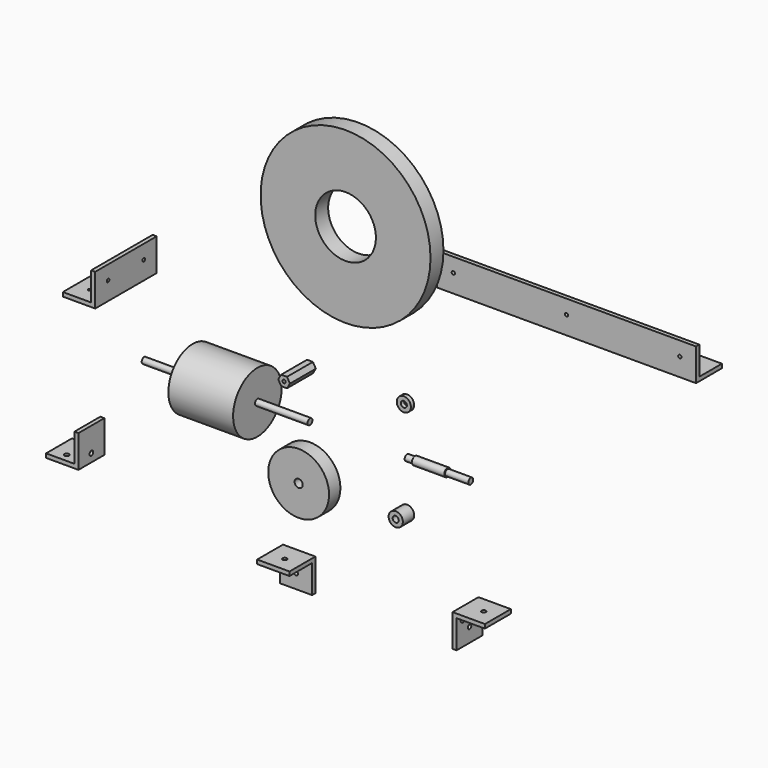
from build123d import *

# Parameters (mm, degrees)
F1_DEPTH         = 50.8
F2_D             = 5.1054
F3_R             = 11.1125
F3_R_2           = 4.7625
F4_DEPTH         = 6.35
F7_R             = 47.752
F7_R_2           = 6.35
F8_DEPTH         = 22.225
F9_R             = 11.1379
F9_R_2           = 4.7625
F10_DEPTH        = 22.225
F13_R            = 133.35
F13_R_2          = 47.625
F14_DEPTH        = 25.4
F16_DEPTH        = 120.65
F19_D            = 5.1054
F19_ON_F17_D     = 5.1054
F21_DEPTH        = 406.4
F24_D            = 5.1054
F24_DEPTH        = 10.2616
F24_TIP          = 1.5338169022
F24_ON_F22_D     = 5.1054
F24_ON_F22_DEPTH = 10.2616
F24_ON_F22_TIP   = 1.5338169022
F26_DEPTH        = 50.8
F29_D            = 6.7564
F29_ON_F27_D     = 6.7564
F30_D            = 9.525
F32_DEPTH        = 50.8
F35_D            = 6.7564
F35_ON_F34_D     = 6.7564
F37_DEPTH        = 50.8
F40_D            = 7.1374
F40_DEPTH        = 26.0604
F40_TIP          = 2.1442912911
F40_ON_F38_D     = 7.1374
F40_ON_F38_DEPTH = 26.0604
F40_ON_F38_TIP   = 2.1442912911


with BuildPart() as f1:
    # F0 (on Front) → F1 (new body)
    with BuildSketch(Plane.XZ):
        Polygon((-71.6172822383, 68.2625), (-67.0345644766, 76.2), (-71.6172822383, 84.1375), (-80.7827177617, 84.1375), (-85.3654355234, 76.2), (-80.7827177617, 68.2625), align=None)
    extrude(amount=F1_DEPTH)

    # F2 (through all)
    with Locations(Plane(origin=(0, 0, 0), x_dir=(1, 0, 0), z_dir=(0, 1, 0))):
        with Locations((-76.2, -76.2)):
            Hole(F2_D / 2)


with BuildPart() as f4:
    # F3 (on Front) → F4 (new body)
    with BuildSketch(Plane.XZ):
        with Locations((76.2, 76.2)):
            Circle(F3_R)
        with Locations((76.2, 76.2)):
            Circle(F3_R_2, mode=Mode.SUBTRACT)
    extrude(amount=F4_DEPTH)


with BuildPart() as f6:
    # F5 (on Front) → F6 (revolve)
    with BuildSketch(Plane.XZ):
        Polygon((76.2, 4.7625), (76.2, 0), (176.2125, 0), (176.2125, 4.7625), (139.7, 4.7625), (139.7, 6.35), (88.9, 6.35), (88.9, 4.7625), align=None)
    revolve(axis=Axis((126.20625, 0, 0), (-1, 0, 0)))


with BuildPart() as f8:
    # F7 (on Front) → F8 (new body)
    with BuildSketch(Plane.XZ):
        with Locations((-76.2, -76.2)):
            Circle(F7_R)
        with Locations((-76.2, -76.2)):
            Circle(F7_R_2, mode=Mode.SUBTRACT)
    extrude(amount=F8_DEPTH)


with BuildPart() as f10:
    # F9 (on Front) → F10 (new body)
    with BuildSketch(Plane.XZ):
        with Locations((76.2, -76.2)):
            Circle(F9_R)
        with Locations((76.2, -76.2)):
            Circle(F9_R_2, mode=Mode.SUBTRACT)
    extrude(amount=F10_DEPTH)


with BuildPart() as f12:
    # F11 (on Front) → F12 (revolve)
    with BuildSketch(Plane.XZ):
        Polygon((-336.55, 0), (-76.2, 0), (-76.2, 4.7625), (-158.75, 4.7625), (-158.75, 47.625), (-260.35, 47.625), (-260.35, 4.7625), (-336.55, 4.7625), align=None)
    revolve(axis=Axis((-206.375, 0, 0), (1, 0, 0)))


with BuildPart() as f14:
    # F13 (on Front) → F14 (new body)
    with BuildSketch(Plane.XZ):
        with Locations((0, 304.8)):
            Circle(F13_R)
        with Locations((0, 304.8)):
            Circle(F13_R_2, mode=Mode.SUBTRACT)
    extrude(amount=F14_DEPTH)


with BuildPart() as f16:
    # F15 (on Front) → F16 (new body)
    with BuildSketch(Plane.XZ):
        Polygon((-367.6201275826, 133.4611347437), (-367.6201275826, 127.1111347437), (-316.8201275826, 127.1111347437), (-316.8201275826, 177.9111347437), (-323.1701275826, 177.9111347437), (-323.1701275826, 133.4611347437), align=None)
    extrude(amount=F16_DEPTH)

    # F19 (through all)
    with Locations(Plane(origin=(-323.1701275826, 0, 0), x_dir=(0, -1, 0), z_dir=(-1, 0, 0))):
        with Locations((95.25, 155.6861347437), (25.4, 155.6861347437)):
            Hole(F19_D / 2)

    # F19 on F17 (through all)
    with Locations(Plane.XY.offset(133.4611347437)):
        with Locations((-345.3951275826, -95.25), (-345.3951275826, -25.4)):
            Hole(F19_ON_F17_D / 2)


with BuildPart() as f21:
    # F20 (on Right) → F21 (new body)
    with BuildSketch(Plane.YZ):
        Polygon((154.2573996544, 147.4147864342), (205.0573996544, 147.4147864342), (205.0573996544, 153.7647864342), (160.6073996544, 153.7647864342), (160.6073996544, 198.2147864342), (154.2573996544, 198.2147864342), align=None)
    extrude(amount=F21_DEPTH)

    # F24
    with Locations(Plane(origin=(0, 160.6073996544, 0), x_dir=(-1, 0, 0), z_dir=(0, 1, 0))):
        with Locations((-25.4, 175.9897864342), (-203.2, 175.9897864342), (-381, 175.9897864342)):
            Hole(F24_D / 2, depth=F24_DEPTH)
            with Locations((0, 0, -(F24_DEPTH + F24_TIP / 2))):  # 118° drill point
                Cone(0, F24_D / 2, F24_TIP, mode=Mode.SUBTRACT)

    # F24 on F22
    with Locations(Plane.XY.offset(153.7647864342)):
        with Locations((381, 182.8323996544), (203.2, 182.8323996544), (25.4, 182.8323996544)):
            Hole(F24_ON_F22_D / 2, depth=F24_ON_F22_DEPTH)
            with Locations((0, 0, -(F24_ON_F22_DEPTH + F24_ON_F22_TIP / 2))):  # 118° drill point
                Cone(0, F24_ON_F22_D / 2, F24_ON_F22_TIP, mode=Mode.SUBTRACT)


with BuildPart() as f26:
    # F25 (on Front) → F26 (new body)
    with BuildSketch(Plane.XZ):
        Polygon((188.2809229851, -156.4561255932), (188.2809229851, -207.2561255932), (194.6309229851, -207.2561255932), (194.6309229851, -162.8061255932), (239.0809229851, -162.8061255932), (239.0809229851, -156.4561255932), align=None)
    extrude(amount=F26_DEPTH)

    # F29 (through all)
    with Locations(Plane(origin=(0, 0, -162.8061255932), x_dir=(1, 0, 0), z_dir=(0, 0, -1))):
        with Locations((216.8559229851, 25.4)):
            Hole(F29_D / 2)

    # F29 on F27 (through all)
    with Locations(Plane.YZ.offset(194.6309229851)):
        with Locations((-25.4, -185.0311255932)):
            Hole(F29_ON_F27_D / 2)

    # F30 (through all)
    with Locations(Plane.YZ.offset(194.6309229851)):
        with Locations((-38.1, -169.1561255932)):
            Hole(F30_D / 2)


with BuildPart() as f32:
    # F31 (on Right) → F32 (new body)
    with BuildSketch(Plane.YZ):
        Polygon((-154.4852054238, -135.6227345109), (-148.1352054238, -135.6227345109), (-148.1352054238, -84.8227345109), (-198.9352054238, -84.8227345109), (-198.9352054238, -91.1727345109), (-154.4852054238, -91.1727345109), align=None)
    extrude(amount=F32_DEPTH)

    # F35 (through all)
    with Locations(Plane.XZ.offset(154.4852054238)):
        with Locations((25.4, -113.3977345109)):
            Hole(F35_D / 2)

    # F35 on F34 (through all)
    with Locations(Plane(origin=(0, 0, -91.1727345109), x_dir=(1, 0, 0), z_dir=(0, 0, -1))):
        with Locations((25.4, 176.7102054238)):
            Hole(F35_ON_F34_D / 2)


with BuildPart() as f37:
    # F36 (on Front) → F37 (new body)
    with BuildSketch(Plane.XZ):
        Polygon((-449.7956357241, -144.5675322294), (-449.7956357241, -150.9175322294), (-398.9956357241, -150.9175322294), (-398.9956357241, -100.1175322294), (-405.3456357241, -100.1175322294), (-405.3456357241, -144.5675322294), align=None)
    extrude(amount=F37_DEPTH)

    # F40
    with Locations(Plane(origin=(-405.3456357241, 0, 0), x_dir=(0, -1, 0), z_dir=(-1, 0, 0))):
        with Locations((25.4, -138.2175322294)):
            Hole(F40_D / 2, depth=F40_DEPTH)
            with Locations((0, 0, -(F40_DEPTH + F40_TIP / 2))):  # 118° drill point
                Cone(0, F40_D / 2, F40_TIP, mode=Mode.SUBTRACT)

    # F40 on F38
    with Locations(Plane.XY.offset(-144.5675322294)):
        with Locations((-427.5706357241, -12.7), (-427.5706357241, -38.1)):
            Hole(F40_ON_F38_D / 2, depth=F40_ON_F38_DEPTH)
            with Locations((0, 0, -(F40_ON_F38_DEPTH + F40_ON_F38_TIP / 2))):  # 118° drill point
                Cone(0, F40_ON_F38_D / 2, F40_ON_F38_TIP, mode=Mode.SUBTRACT)


solid = Compound([f1.part, f4.part, f6.part, f8.part, f10.part, f12.part, f14.part, f16.part, f21.part, f26.part, f32.part, f37.part])
